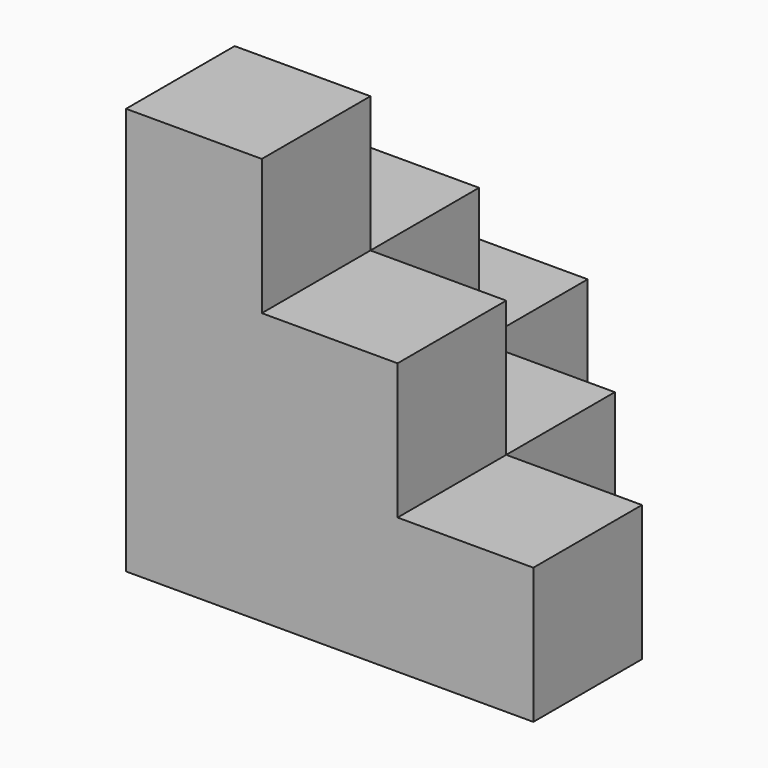
from build123d import *

# Parameters (mm, degrees)
BOX001_W     = 10
BOX001_H     = 10
BOX001_DEPTH = 10
BOX002_W     = 10
BOX002_H     = 10
BOX002_DEPTH = 10
BOX003_W     = 10
BOX003_H     = 10
BOX003_DEPTH = 10
BOX004_W     = 10
BOX004_H     = 10
BOX004_DEPTH = 10
BOX005_W     = 10
BOX005_H     = 10
BOX005_DEPTH = 10
BOX006_W     = 10
BOX006_H     = 10
BOX006_DEPTH = 10
BOX007_W     = 10
BOX007_H     = 10
BOX007_DEPTH = 10
BOX008_W     = 10
BOX008_H     = 10
BOX008_DEPTH = 10
BOX009_W     = 10
BOX009_H     = 10
BOX009_DEPTH = 10
BOX_W        = 10
BOX_H        = 10
BOX_DEPTH    = 10


with BuildPart() as cube001:
    # Box001 → Box001 (new body)
    with BuildSketch(Plane(origin=(10, 0, 0), x_dir=(1, 0, 0), z_dir=(0, 0, 1))):
        with Locations((5, 5)):
            Rectangle(BOX001_W, BOX001_H)
    extrude(amount=BOX001_DEPTH)


with BuildPart() as cube002:
    # Box002 → Box002 (new body)
    with BuildSketch(Plane(origin=(0, 10, 0), x_dir=(1, 0, 0), z_dir=(0, 0, 1))):
        with Locations((5, 5)):
            Rectangle(BOX002_W, BOX002_H)
    extrude(amount=BOX002_DEPTH)


with BuildPart() as cube003:
    # Box003 → Box003 (new body)
    with BuildSketch(Plane(origin=(20, 0, 0), x_dir=(1, 0, 0), z_dir=(0, 0, 1))):
        with Locations((5, 5)):
            Rectangle(BOX003_W, BOX003_H)
    extrude(amount=BOX003_DEPTH)


with BuildPart() as cube004:
    # Box004 → Box004 (new body)
    with BuildSketch(Plane(origin=(0, 20, 0), x_dir=(1, 0, 0), z_dir=(0, 0, 1))):
        with Locations((5, 5)):
            Rectangle(BOX004_W, BOX004_H)
    extrude(amount=BOX004_DEPTH)


with BuildPart() as cube005:
    # Box005 → Box005 (new body)
    with BuildSketch(Plane(origin=(10, 10, 0), x_dir=(1, 0, 0), z_dir=(0, 0, 1))):
        with Locations((5, 5)):
            Rectangle(BOX005_W, BOX005_H)
    extrude(amount=BOX005_DEPTH)


with BuildPart() as cube006:
    # Box006 → Box006 (new body)
    with BuildSketch(Plane.XY.offset(10)):
        with Locations((5, 5)):
            Rectangle(BOX006_W, BOX006_H)
    extrude(amount=BOX006_DEPTH)


with BuildPart() as cube007:
    # Box007 → Box007 (new body)
    with BuildSketch(Plane(origin=(10, 0, 10), x_dir=(1, 0, 0), z_dir=(0, 0, 1))):
        with Locations((5, 5)):
            Rectangle(BOX007_W, BOX007_H)
    extrude(amount=BOX007_DEPTH)


with BuildPart() as cube008:
    # Box008 → Box008 (new body)
    with BuildSketch(Plane(origin=(0, 10, 10), x_dir=(1, 0, 0), z_dir=(0, 0, 1))):
        with Locations((5, 5)):
            Rectangle(BOX008_W, BOX008_H)
    extrude(amount=BOX008_DEPTH)


with BuildPart() as cube009:
    # Box009 → Box009 (new body)
    with BuildSketch(Plane.XY.offset(20)):
        with Locations((5, 5)):
            Rectangle(BOX009_W, BOX009_H)
    extrude(amount=BOX009_DEPTH)


with BuildPart() as fusion:
    # Box → Box (new body)
    with BuildSketch(Plane.XY):
        with Locations((5, 5)):
            Rectangle(BOX_W, BOX_H)
    extrude(amount=BOX_DEPTH)

    # Fusion: union Cube001, Cube002, Cube003, Cube004, Cube005, Cube006, Cube007, Cube008, Cube009
    add(cube001.part)
    add(cube002.part)
    add(cube003.part)
    add(cube004.part)
    add(cube005.part)
    add(cube006.part)
    add(cube007.part)
    add(cube008.part)
    add(cube009.part)


solid = fusion.part
